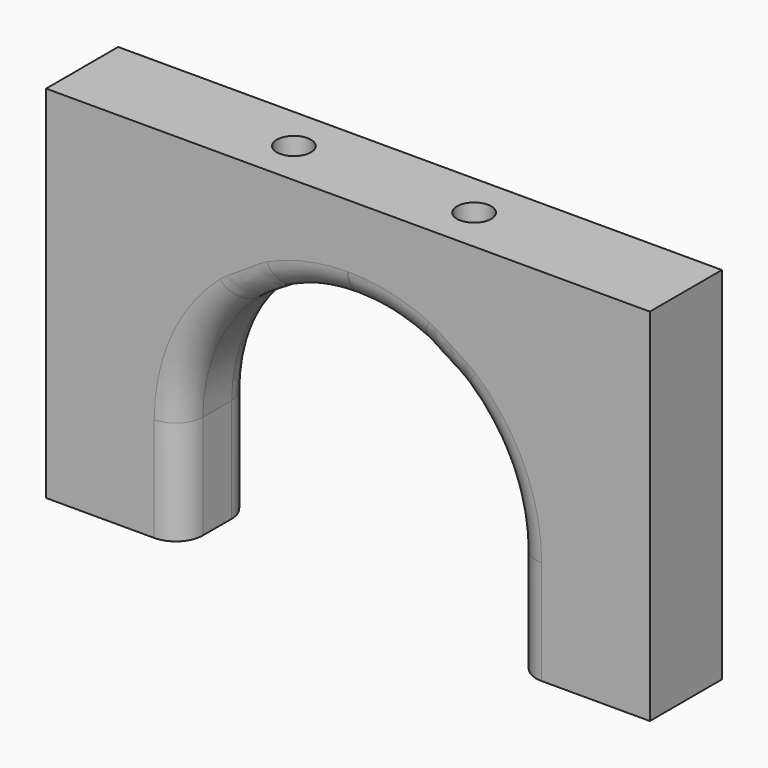
from build123d import *

# Parameters (mm, degrees)
SKETCH_W        = 67
SKETCH_H        = 10
PAD_DEPTH       = 40
SKETCH001_W     = 37
SKETCH001_H     = 10
POCKET_DEPTH    = 30
FILLET_R        = 18.45
SKETCH002_R     = 3
POCKET001_DEPTH = 34
SKETCH003_R     = 1.9
POCKET002_DEPTH = 6
FILLET001_R     = 3
FILLET002_R     = 3


with BuildPart() as part:
    # Sketch → Pad (new body)
    with BuildSketch(Plane.XY):
        Rectangle(SKETCH_W, SKETCH_H)
    extrude(amount=PAD_DEPTH)

    # Sketch001 (on Face5 of Pad) → Pocket (cut)
    with BuildSketch(Plane(origin=(0, 0, 0), x_dir=(1, 0, 0), z_dir=(0, 0, -1))):
        Rectangle(SKETCH001_W, SKETCH001_H)
    extrude(amount=-POCKET_DEPTH, mode=Mode.SUBTRACT)

    # Fillet
    fillet_edges = [part.edges().sort_by_distance(p)[0] for p in [
        (-18.5, 0, 30),
        (18.5, 0, 30),
    ]]
    fillet(fillet_edges, radius=FILLET_R)

    # Sketch002 (on Face4 of Fillet) → Pocket001 (cut)
    with BuildSketch(Plane(origin=(0, 0, 0), x_dir=(1, 0, 0), z_dir=(0, 0, -1))):
        with Locations((-10, 0)):
            Circle(SKETCH002_R)
        with Locations((10, 0)):
            Circle(SKETCH002_R)
    extrude(amount=-POCKET001_DEPTH, mode=Mode.SUBTRACT)

    # Sketch003 (on Face8 of Pocket001) → Pocket002 (cut)
    with BuildSketch(Plane.XY.offset(40)):
        with Locations((-10, 0)):
            Circle(SKETCH003_R)
        with Locations((10, 0)):
            Circle(SKETCH003_R)
    extrude(amount=-POCKET002_DEPTH, mode=Mode.SUBTRACT)

    # Fillet001
    fillet001_edges = [part.edges().sort_by_distance(p)[0] for p in [
        (18.5, -5, 5.775),
    ]]
    fillet(fillet001_edges, radius=FILLET001_R)

    # Fillet002
    fillet002_edges = [part.edges().sort_by_distance(p)[0] for p in [
        (-18.5, 5, 5.775),
    ]]
    fillet(fillet002_edges, radius=FILLET002_R)


solid = part.part
